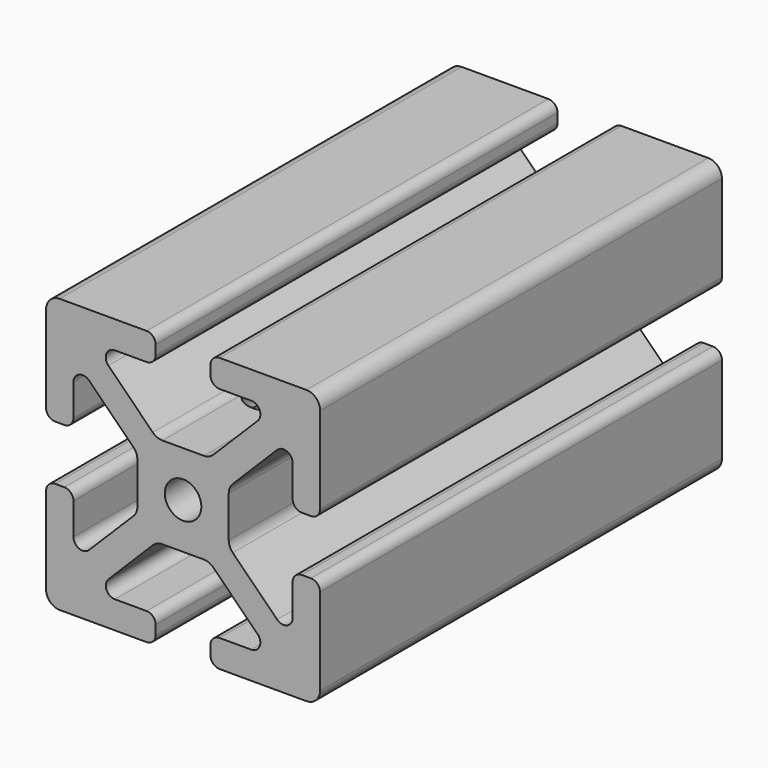
from build123d import *

# Parameters (mm, degrees)
F0_R     = 2
F1_DEPTH = 55
F2_R     = 2.5
F3_DEPTH = 2


with BuildPart() as f1:
    # F0 (on Front) → F1 (new body)
    with BuildSketch(Plane.XZ):
        with BuildLine():
            ThreePointArc((15, 13.5), (14.56066, 14.56066), (13.5, 15))
            Line((13.5, 15), (4, 15))
            ThreePointArc((4, 15), (3.292893, 14.707107), (3, 14))
            Line((3, 14), (3, 13))
            ThreePointArc((3, 13), (3.292893, 12.292893), (4, 12))
            Line((4, 12), (7.464466, 12))
            ThreePointArc((7.464466, 12), (8.388346, 11.382683), (8.171573, 10.292893))
            Line((8.171573, 10.292893), (3.318019, 5.43934))
            ThreePointArc((3.318019, 5.43934), (2.831384, 5.114181), (2.257359, 5))
            Line((2.257359, 5), (-2.257359, 5))
            ThreePointArc((-2.257359, 5), (-2.831384, 5.114181), (-3.318019, 5.43934))
            Line((-3.318019, 5.43934), (-8.171573, 10.292893))
            ThreePointArc((-8.171573, 10.292893), (-8.388346, 11.382683), (-7.464466, 12))
            Line((-7.464466, 12), (-4, 12))
            ThreePointArc((-4, 12), (-3.292893, 12.292893), (-3, 13))
            Line((-3, 13), (-3, 14))
            ThreePointArc((-3, 14), (-3.292893, 14.707107), (-4, 15))
            Line((-4, 15), (-13.5, 15))
            ThreePointArc((-13.5, 15), (-14.56066, 14.56066), (-15, 13.5))
            Line((-15, 13.5), (-15, 4))
            ThreePointArc((-15, 4), (-14.707107, 3.292893), (-14, 3))
            Line((-14, 3), (-13, 3))
            ThreePointArc((-13, 3), (-12.292893, 3.292893), (-12, 4))
            Line((-12, 4), (-12, 7.464466))
            ThreePointArc((-12, 7.464466), (-11.382683, 8.388346), (-10.292893, 8.171573))
            Line((-10.292893, 8.171573), (-5.43934, 3.318019))
            ThreePointArc((-5.43934, 3.318019), (-5.114181, 2.831384), (-5, 2.257359))
            Line((-5, 2.257359), (-5, -2.257359))
            ThreePointArc((-5, -2.257359), (-5.114181, -2.831384), (-5.43934, -3.318019))
            Line((-5.43934, -3.318019), (-10.292893, -8.171573))
            ThreePointArc((-10.292893, -8.171573), (-11.382683, -8.388346), (-12, -7.464466))
            Line((-12, -7.464466), (-12, -4))
            ThreePointArc((-12, -4), (-12.292893, -3.292893), (-13, -3))
            Line((-13, -3), (-14, -3))
            ThreePointArc((-14, -3), (-14.707107, -3.292893), (-15, -4))
            Line((-15, -4), (-15, -13.5))
            ThreePointArc((-15, -13.5), (-14.56066, -14.56066), (-13.5, -15))
            Line((-13.5, -15), (-4, -15))
            ThreePointArc((-4, -15), (-3.292893, -14.707107), (-3, -14))
            Line((-3, -14), (-3, -13))
            ThreePointArc((-3, -13), (-3.292893, -12.292893), (-4, -12))
            Line((-4, -12), (-7.464466, -12))
            ThreePointArc((-7.464466, -12), (-8.388346, -11.382683), (-8.171573, -10.292893))
            Line((-8.171573, -10.292893), (-3.318019, -5.43934))
            ThreePointArc((-3.318019, -5.43934), (-2.831384, -5.114181), (-2.257359, -5))
            Line((-2.257359, -5), (2.257359, -5))
            ThreePointArc((2.257359, -5), (2.831384, -5.114181), (3.318019, -5.43934))
            Line((3.318019, -5.43934), (8.171573, -10.292893))
            ThreePointArc((8.171573, -10.292893), (8.388346, -11.382683), (7.464466, -12))
            Line((7.464466, -12), (4, -12))
            ThreePointArc((4, -12), (3.292893, -12.292893), (3, -13))
            Line((3, -13), (3, -14))
            ThreePointArc((3, -14), (3.292893, -14.707107), (4, -15))
            Line((4, -15), (13.5, -15))
            ThreePointArc((13.5, -15), (14.56066, -14.56066), (15, -13.5))
            Line((15, -13.5), (15, -4))
            ThreePointArc((15, -4), (14.707107, -3.292893), (14, -3))
            Line((14, -3), (13, -3))
            ThreePointArc((13, -3), (12.292893, -3.292893), (12, -4))
            Line((12, -4), (12, -7.464466))
            ThreePointArc((12, -7.464466), (11.382683, -8.388346), (10.292893, -8.171573))
            Line((10.292893, -8.171573), (5.43934, -3.318019))
            ThreePointArc((5.43934, -3.318019), (5.114181, -2.831384), (5, -2.257359))
            Line((5, -2.257359), (5, 2.257359))
            ThreePointArc((5, 2.257359), (5.114181, 2.831384), (5.43934, 3.318019))
            Line((5.43934, 3.318019), (10.292893, 8.171573))
            ThreePointArc((10.292893, 8.171573), (11.382683, 8.388346), (12, 7.464466))
            Line((12, 7.464466), (12, 4))
            ThreePointArc((12, 4), (12.292893, 3.292893), (13, 3))
            Line((13, 3), (14, 3))
            ThreePointArc((14, 3), (14.707107, 3.292893), (15, 4))
            Line((15, 4), (15, 13.5))
        make_face()
        Circle(F0_R, mode=Mode.SUBTRACT)
    extrude(amount=-F1_DEPTH)

    # F2 (on face) → F3 (cut)
    with BuildSketch(Plane.XY.offset(5)):
        with Locations((0, 12)):
            Circle(F2_R)
    extrude(amount=-F3_DEPTH, mode=Mode.SUBTRACT)


solid = f1.part
